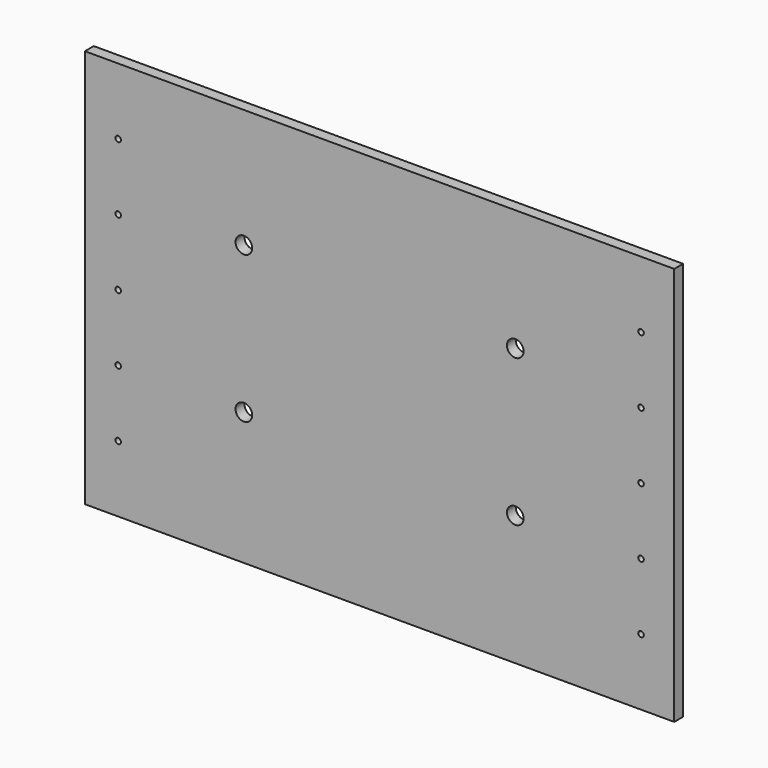
from build123d import *

# Parameters (mm, degrees)
F0_W     = 1351.28
F0_H     = 914.4
F1_DEPTH = 25.4
F3_D     = 12.7
F4_R     = 19.05
F5_DEPTH = 127


with BuildPart() as f1:
    # F0 (on Front) → F1 (new body)
    with BuildSketch(Plane.XZ):
        Rectangle(F0_W, F0_H)
    extrude(amount=F1_DEPTH)

    # F3 (through all)
    with Locations(Plane.XZ.offset(25.4)):
        with Locations((-599.44, -152.4), (-599.44, 0), (-599.44, 152.4), (-599.44, 304.8), (-599.44, -304.8), (599.44, 304.8), (599.44, 152.4), (599.44, 0), (599.44, -152.4), (599.44, -304.8)):
            Hole(F3_D / 2)

    # F4 (on face) → F5 (cut)
    with BuildSketch(Plane.XZ.offset(25.4)):
        with Locations((-311.15, 184.40962)):
            Circle(F4_R)
        with Locations((-311.15, -152.90238)):
            Circle(F4_R)
        with Locations((311.15, -159.049213)):
            Circle(F4_R)
        with Locations((311.15, 178.262787)):
            Circle(F4_R)
    extrude(amount=-F5_DEPTH, mode=Mode.SUBTRACT)


solid = f1.part
